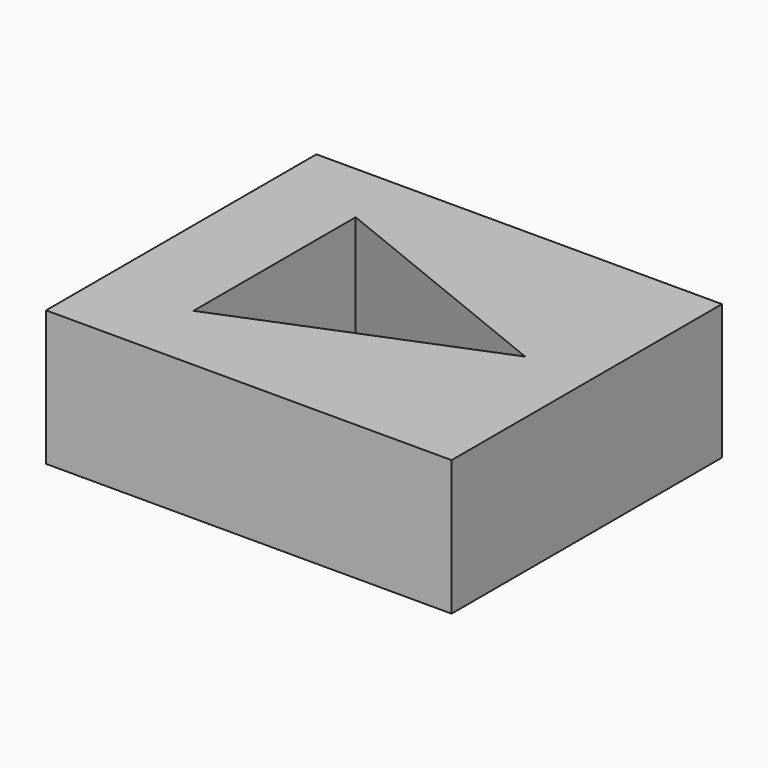
from build123d import *

# Parameters (mm, degrees)
F0_W     = 30
F0_H     = 25
F1_DEPTH = 10


with BuildPart() as f1:
    # F0 (on Top) → F1 (new body)
    with BuildSketch(Plane.XY):
        with Locations((-11.136306, -1.705752)):
            Rectangle(F0_W, F0_H)
        Polygon((-19.450465, -8.932962), (-19.450465, 6.067038), (-0.909969, -1.432962), align=None, mode=Mode.SUBTRACT)
    extrude(amount=F1_DEPTH)


solid = f1.part
